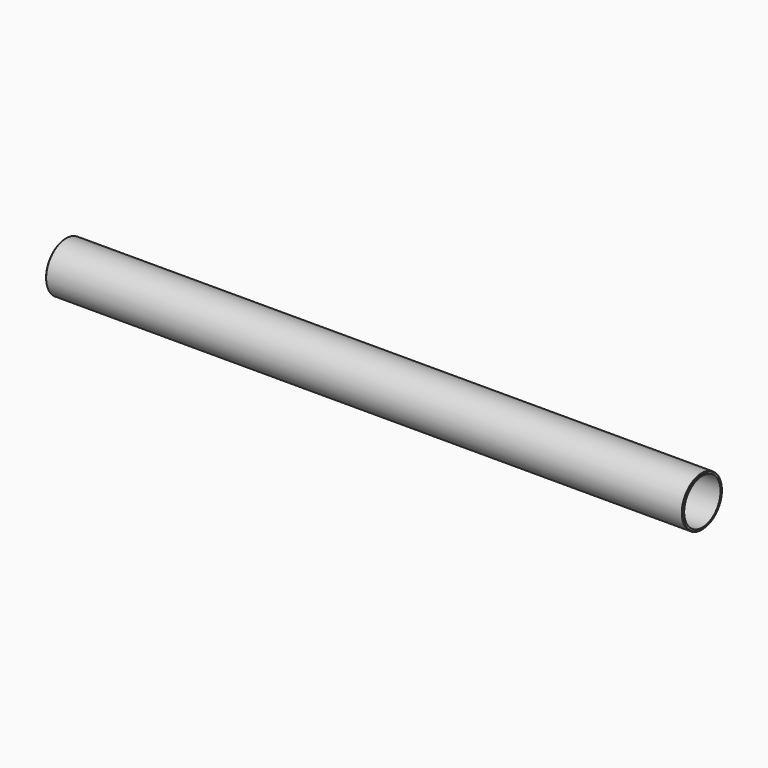
from build123d import *

# Parameters (mm, degrees)
F0_R     = 11
F0_R_2   = 10
F1_DEPTH = 140
F2_SIZE  = 0.25


with BuildPart() as f1:
    # F0 (on Right) → F1 (new body, symmetric)
    with BuildSketch(Plane.YZ):
        Circle(F0_R)
        Circle(F0_R_2, mode=Mode.SUBTRACT)
    extrude(amount=F1_DEPTH, both=True)

    # F2
    f2_edges = [f1.edges().sort_by_distance(p)[0] for p in [
        (-140, -11, 0),
        (140, -11, 0),
    ]]
    chamfer(f2_edges, length=F2_SIZE)


solid = f1.part
